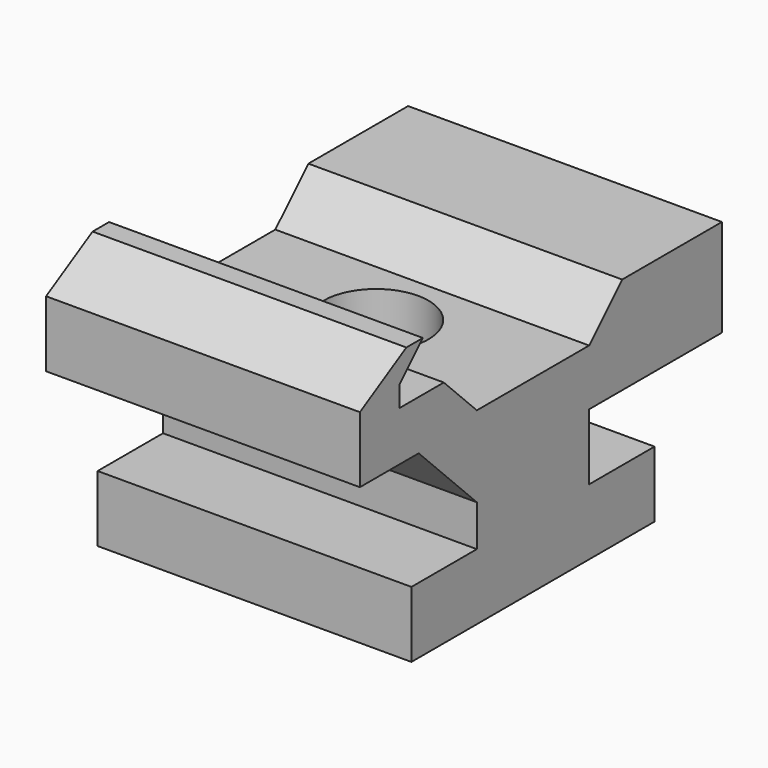
from build123d import *

# Parameters (mm, degrees)
F1_DEPTH = 9.5
F3_D     = 6.35
F5_D     = 4
F5_DEPTH = 7
F5_TIP   = 1.2017212381
F6_D     = 3.2
F6_DEPTH = 3.5
F6_TIP   = 0.9613769904


with BuildPart() as f1:
    # F0 (on Right) → F1 (new body, symmetric)
    with BuildSketch(Plane.YZ):
        Polygon((-9.2, -4.75), (-9.2, -8.75), (9.2, -8.75), (9.2, -4.75), (4.25, -4.75), (4.25, -0.75), (14.3, -0.75), (14.3, 5.15), (6.75, 5.15), (4.25, 2.65), (-4.25, 2.65), (-6.75, 5.15), (-10.1, 5.15), (-10.1, 6.4), (-8.332233047, 8.167766953), (-9.582233047, 8.167766953), (-13.1, 6.15), (-13.1, 2.15), (-8.65, 2.15), (-4.25, -2.25), (-4.25, -4.75), align=None)
    extrude(amount=F1_DEPTH, both=True)

    # F3 (through all)
    with Locations(Plane(origin=(0, 0, -8.75), x_dir=(1, 0, 0), z_dir=(0, 0, -1))):
        with Locations((0, 0)):
            Hole(F3_D / 2)

    # F5
    with Locations(Plane(origin=(0, 14.3, 0), x_dir=(-1, 0, 0), z_dir=(0, 1, 0))):
        with Locations((0, 2.2)):
            Hole(F5_D / 2, depth=F5_DEPTH)
            with Locations((0, 0, -(F5_DEPTH + F5_TIP / 2))):  # 118° drill point
                Cone(0, F5_D / 2, F5_TIP, mode=Mode.SUBTRACT)

    # F6
    with Locations(Plane(origin=(0, 14.3, 0), x_dir=(-1, 0, 0), z_dir=(0, 1, 0))):
        with Locations((-6, 2.2), (6, 2.2)):
            Hole(F6_D / 2, depth=F6_DEPTH)
            with Locations((0, 0, -(F6_DEPTH + F6_TIP / 2))):  # 118° drill point
                Cone(0, F6_D / 2, F6_TIP, mode=Mode.SUBTRACT)


solid = f1.part
